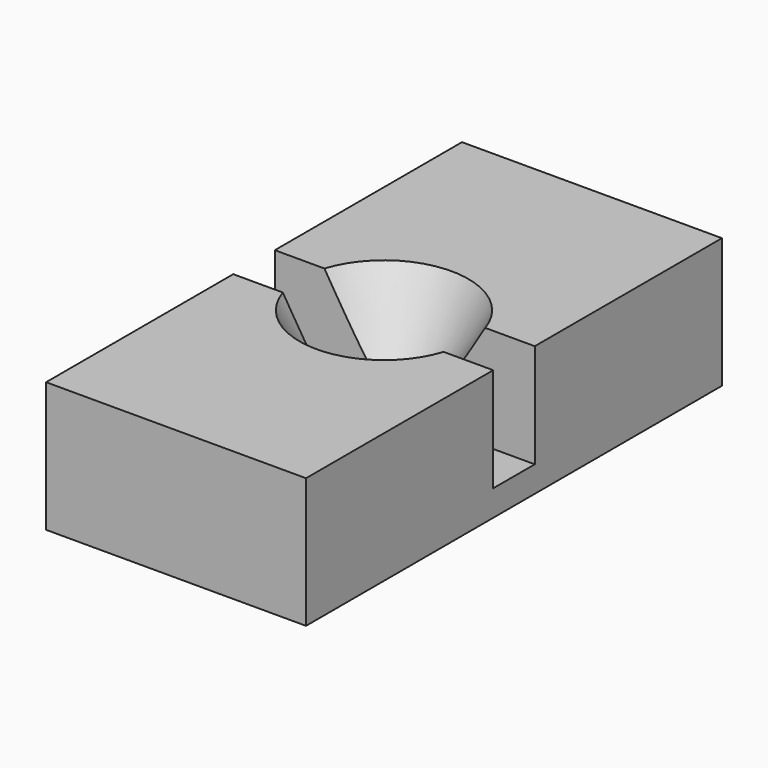
from build123d import *

# Parameters (mm, degrees)
SKETCH_W         = 20
SKETCH_H         = 40
PAD_DEPTH        = 10
HOLE_D           = 6
HOLE_CSINK_D     = 13
HOLE_CSINK_ANGLE = 60
SKETCH002_W      = 20
SKETCH002_H      = 4
POCKET_DEPTH     = 8


with BuildPart() as part:
    # Sketch → Pad (new body)
    with BuildSketch(Plane.XY):
        Rectangle(SKETCH_W, SKETCH_H)
    extrude(amount=-PAD_DEPTH)

    # Hole (through all)
    with Locations(Plane.XY):
        with Locations((0, 0)):
            CounterSinkHole(HOLE_D / 2, HOLE_CSINK_D / 2, counter_sink_angle=HOLE_CSINK_ANGLE)

    # Sketch002 (on Face4 of Hole) → Pocket (cut)
    with BuildSketch(Plane.XY):
        Rectangle(SKETCH002_W, SKETCH002_H)
    extrude(amount=-POCKET_DEPTH, mode=Mode.SUBTRACT)


solid = part.part
